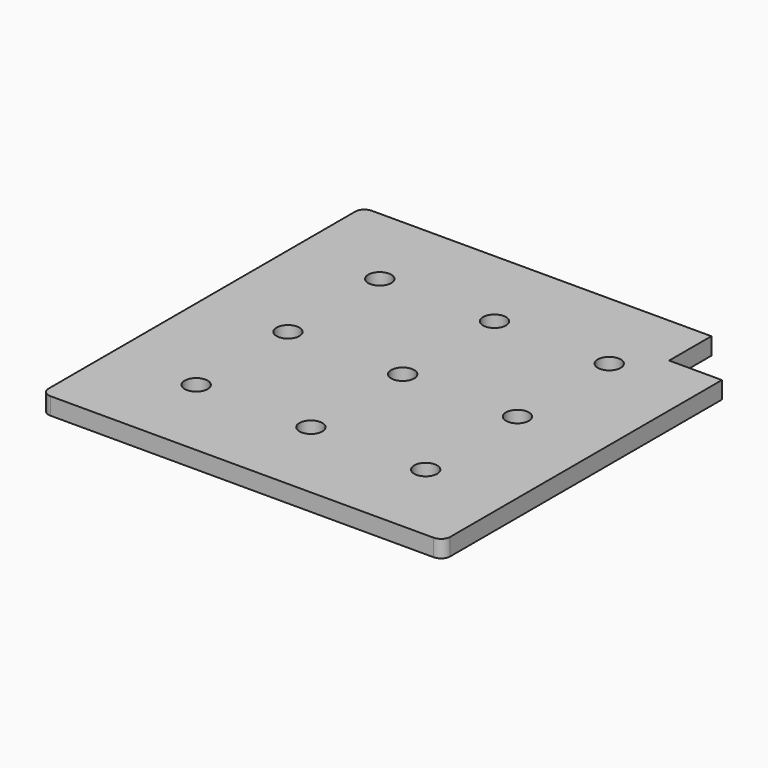
from build123d import *

# Parameters (mm, degrees)
F0_R     = 10
F1_DEPTH = 15


with BuildPart() as f1:
    # F0 (on Top) → F1 (new body)
    with BuildSketch(Plane.XY):
        with BuildLine():
            Line((129, 175), (-167, 175))
            ThreePointArc((-167, 175), (-172.656854, 172.656854), (-175, 167))
            Line((-175, 167), (-175, -167))
            ThreePointArc((-175, -167), (-172.656854, -172.656854), (-167, -175))
            Line((-167, -175), (167, -175))
            ThreePointArc((167, -175), (172.656854, -172.656854), (175, -167))
            Line((175, -167), (175, 129))
            Line((175, 129), (129, 129))
            Line((129, 129), (129, 175))
        make_face()
        with Locations((-100, -100)):
            Circle(F0_R, mode=Mode.SUBTRACT)
        with Locations((0, -100)):
            Circle(F0_R, mode=Mode.SUBTRACT)
        with Locations((100, -100)):
            Circle(F0_R, mode=Mode.SUBTRACT)
        with Locations((-100, 0)):
            Circle(F0_R, mode=Mode.SUBTRACT)
        with Locations((-100, 100)):
            Circle(F0_R, mode=Mode.SUBTRACT)
        Circle(F0_R, mode=Mode.SUBTRACT)
        with Locations((100, 0)):
            Circle(F0_R, mode=Mode.SUBTRACT)
        with Locations((0, 100)):
            Circle(F0_R, mode=Mode.SUBTRACT)
        with Locations((100, 100)):
            Circle(F0_R, mode=Mode.SUBTRACT)
    extrude(amount=F1_DEPTH)


solid = f1.part
